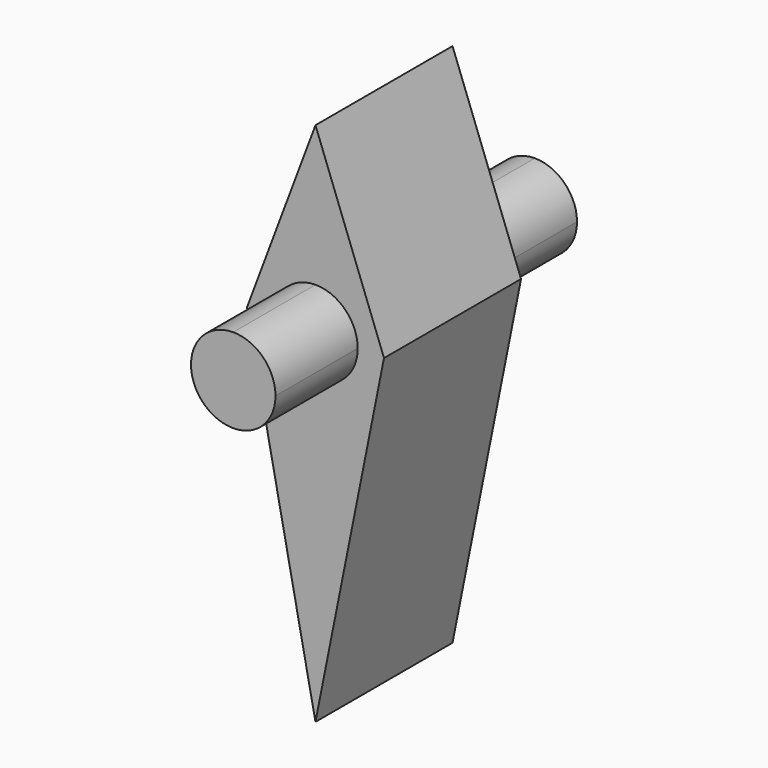
from build123d import *

# Parameters (mm, degrees)
F1_DEPTH      = 7.5
F2_DEPTH      = 12
F2_DEPTH_BACK = 4.5


with BuildPart() as f1:
    # F0 (on Front) → F1 (new body)
    with BuildSketch(Plane.XZ):
        with BuildLine():
            Line((2.9999999901, -0.0002442856), (1.8499999939, -0.0001506428))
            ThreePointArc((1.8499999939, -0.0001506428), (1.3080410203, -1.3082540614), (-0.0001506428, -1.8499999939))
            Line((-0.0001506428, -1.8499999939), (-0.0012214281, -14.9999999503))
            Line((-0.0012214281, -14.9999999503), (2.9999999901, -0.0002442856))
        make_face()
        with BuildLine():
            ThreePointArc((-0.0001506428, -1.8499999939), (-1.3082540614, -1.3080410203), (-1.8499999939, 0.0001506428))
            Line((-1.8499999939, 0.0001506428), (-2.9999999901, 0.0002442856))
            Line((-2.9999999901, 0.0002442856), (-0.0012214281, -14.9999999503))
            Line((-0.0012214281, -14.9999999503), (-0.0001506428, -1.8499999939))
        make_face()
        with BuildLine():
            Line((0, 0), (-1.8499999939, 0.0001506428))
            ThreePointArc((-1.8499999939, 0.0001506428), (-1.3082540614, -1.3080410203), (-0.0001506428, -1.8499999939))
            Line((-0.0001506428, -1.8499999939), (0, 0))
        make_face()
        with BuildLine():
            ThreePointArc((-0.0001506428, -1.8499999939), (1.3080410203, -1.3082540614), (1.8499999939, -0.0001506428))
            Line((1.8499999939, -0.0001506428), (0, 0))
            Line((0, 0), (-0.0001506428, -1.8499999939))
        make_face()
        with BuildLine():
            ThreePointArc((1.8499999939, -0.0001506428), (1.8499999985, -7.53214e-05), (1.85, 0))
            ThreePointArc((1.85, 0), (1.3081475452, 1.3081475452), (0, 1.85))
            Line((0, 1.85), (0, 0))
            Line((0, 0), (1.8499999939, -0.0001506428))
        make_face()
        with BuildLine():
            Line((0, 0), (0, 1.85))
            ThreePointArc((0, 1.85), (-1.3080942838, 1.3082008044), (-1.8499999939, 0.0001506428))
            Line((-1.8499999939, 0.0001506428), (0, 0))
        make_face()
        with BuildLine():
            ThreePointArc((-1.8499999939, 0.0001506428), (-1.3080942838, 1.3082008044), (0, 1.85))
            Line((0, 1.85), (0, 8))
            Line((0, 8), (-2.9999999901, 0.0002442856))
            Line((-2.9999999901, 0.0002442856), (-1.8499999939, 0.0001506428))
        make_face()
        with BuildLine():
            ThreePointArc((0, 1.85), (1.3081475452, 1.3081475452), (1.85, 0))
            ThreePointArc((1.85, 0), (1.8499999985, -7.53214e-05), (1.8499999939, -0.0001506428))
            Line((1.8499999939, -0.0001506428), (2.9999999901, -0.0002442856))
            Line((2.9999999901, -0.0002442856), (0, 8))
            Line((0, 8), (0, 1.85))
        make_face()
    extrude(amount=F1_DEPTH)

    # F0 (on Front) → F2 (join, two sides)
    with BuildSketch(Plane.XZ) as f2_sk:
        with BuildLine():
            Line((0, 0), (-1.8499999939, 0.0001506428))
            ThreePointArc((-1.8499999939, 0.0001506428), (-1.3082540614, -1.3080410203), (-0.0001506428, -1.8499999939))
            Line((-0.0001506428, -1.8499999939), (0, 0))
        make_face()
        with BuildLine():
            Line((0, 0), (0, 1.85))
            ThreePointArc((0, 1.85), (-1.3080942838, 1.3082008044), (-1.8499999939, 0.0001506428))
            Line((-1.8499999939, 0.0001506428), (0, 0))
        make_face()
        with BuildLine():
            ThreePointArc((1.8499999939, -0.0001506428), (1.8499999985, -7.53214e-05), (1.85, 0))
            ThreePointArc((1.85, 0), (1.3081475452, 1.3081475452), (0, 1.85))
            Line((0, 1.85), (0, 0))
            Line((0, 0), (1.8499999939, -0.0001506428))
        make_face()
        with BuildLine():
            ThreePointArc((-0.0001506428, -1.8499999939), (1.3080410203, -1.3082540614), (1.8499999939, -0.0001506428))
            Line((1.8499999939, -0.0001506428), (0, 0))
            Line((0, 0), (-0.0001506428, -1.8499999939))
        make_face()
    extrude(amount=F2_DEPTH)
    extrude(f2_sk.sketch, amount=-F2_DEPTH_BACK)


solid = f1.part
